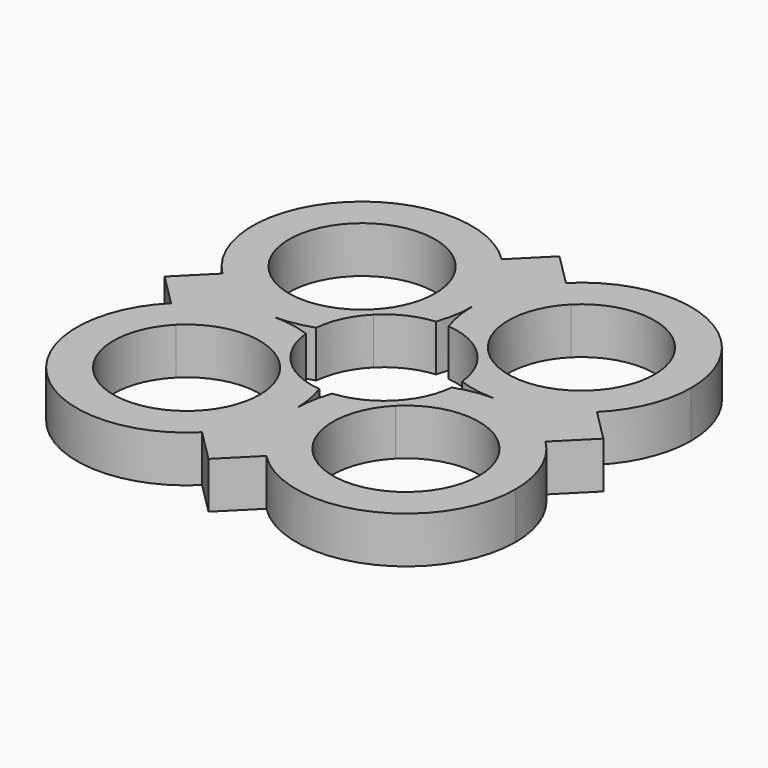
from build123d import *

# Parameters (mm, degrees)
F1_DEPTH = 7


with BuildPart() as f1:
    # F0 (on Top) → F1 (new body)
    with BuildSketch(Plane.XY):
        with BuildLine():
            ThreePointArc((7.7781745931, 7.7781745931), (9.9694294001, 4.6487070714), (10.9581597192, 0.9585069475))
            ThreePointArc((10.9581597192, 0.9585069475), (13.6879398448, 0.2413925048), (16.5, 0))
            ThreePointArc((16.5, 0), (22.814276634, 1.2559877136), (28.1672618896, 4.8327381104))
            Line((28.1672618896, 4.8327381104), (24.2781745931, 8.7218254069))
            ThreePointArc((24.2781745931, 8.7218254069), (16.5, 5.5), (8.7218254069, 8.7218254069))
            Line((8.7218254069, 8.7218254069), (7.7781745931, 7.7781745931))
        make_face()
        with BuildLine():
            ThreePointArc((16.5, 0), (13.6879398448, -0.2413925048), (10.9581597192, -0.9585069475))
            ThreePointArc((10.9581597192, -0.9585069475), (9.9694294001, -4.6487070714), (7.7781745931, -7.7781745931))
            Line((7.7781745931, -7.7781745931), (8.7218254069, -8.7218254069))
            ThreePointArc((8.7218254069, -8.7218254069), (16.5, -5.5), (24.2781745931, -8.7218254069))
            Line((24.2781745931, -8.7218254069), (28.1672618896, -4.8327381104))
            ThreePointArc((28.1672618896, -4.8327381104), (22.814276634, -1.2559877136), (16.5, 0))
        make_face()
        with BuildLine():
            ThreePointArc((28.1672618896, 4.8327381104), (22.814276634, 1.2559877136), (16.5, 0))
            Line((16.5, 0), (33, 0))
            Line((33, 0), (28.1672618896, 4.8327381104))
        make_face()
        with BuildLine():
            Line((33, 0), (16.5, 0))
            ThreePointArc((16.5, 0), (22.814276634, -1.2559877136), (28.1672618896, -4.8327381104))
            Line((28.1672618896, -4.8327381104), (33, 0))
        make_face()
        with BuildLine():
            ThreePointArc((0.9585069475, 10.9581597192), (4.6487070714, 9.9694294001), (7.7781745931, 7.7781745931))
            Line((7.7781745931, 7.7781745931), (8.7218254069, 8.7218254069))
            ThreePointArc((8.7218254069, 8.7218254069), (5.5, 16.5), (8.7218254069, 24.2781745931))
            Line((8.7218254069, 24.2781745931), (4.8327381104, 28.1672618896))
            ThreePointArc((4.8327381104, 28.1672618896), (1.2559877136, 22.814276634), (0, 16.5))
            ThreePointArc((0, 16.5), (0.2413925048, 13.6879398448), (0.9585069475, 10.9581597192))
        make_face()
        with BuildLine():
            Line((8.7218254069, -8.7218254069), (7.7781745931, -7.7781745931))
            ThreePointArc((7.7781745931, -7.7781745931), (4.6487070714, -9.9694294001), (0.9585069475, -10.9581597192))
            ThreePointArc((0.9585069475, -10.9581597192), (0.2413925048, -13.6879398448), (0, -16.5))
            ThreePointArc((0, -16.5), (1.2559877136, -22.814276634), (4.8327381104, -28.1672618896))
            Line((4.8327381104, -28.1672618896), (8.7218254069, -24.2781745931))
            ThreePointArc((8.7218254069, -24.2781745931), (5.5, -16.5), (8.7218254069, -8.7218254069))
        make_face()
        with BuildLine():
            Line((24.2781745931, 8.7218254069), (28.1672618896, 4.8327381104))
            ThreePointArc((28.1672618896, 4.8327381104), (31.7440122864, 10.185723366), (33, 16.5))
            ThreePointArc((33, 16.5), (31.7440122864, 22.814276634), (28.1672618896, 28.1672618896))
            Line((28.1672618896, 28.1672618896), (24.2781745931, 24.2781745931))
            ThreePointArc((24.2781745931, 24.2781745931), (26.6626748576, 20.709517756), (27.5, 16.5))
            ThreePointArc((27.5, 16.5), (26.6626748576, 12.290482244), (24.2781745931, 8.7218254069))
        make_face()
        with BuildLine():
            ThreePointArc((33, -16.5), (31.7440122864, -10.185723366), (28.1672618896, -4.8327381104))
            Line((28.1672618896, -4.8327381104), (24.2781745931, -8.7218254069))
            ThreePointArc((24.2781745931, -8.7218254069), (26.6626748576, -12.290482244), (27.5, -16.5))
            ThreePointArc((27.5, -16.5), (20.709517756, -26.6626748576), (8.7218254069, -24.2781745931))
            Line((8.7218254069, -24.2781745931), (4.8327381104, -28.1672618896))
            ThreePointArc((4.8327381104, -28.1672618896), (22.814276634, -31.7440122864), (33, -16.5))
        make_face()
        with BuildLine():
            Line((-8.7218254069, -8.7218254069), (-7.7781745931, -7.7781745931))
            ThreePointArc((-7.7781745931, -7.7781745931), (-9.9694294001, -4.6487070714), (-10.9581597192, -0.9585069475))
            ThreePointArc((-10.9581597192, -0.9585069475), (-13.6879398448, -0.2413925048), (-16.5, 0))
            ThreePointArc((-16.5, 0), (-22.814276634, -1.2559877136), (-28.1672618896, -4.8327381104))
            Line((-28.1672618896, -4.8327381104), (-24.2781745931, -8.7218254069))
            ThreePointArc((-24.2781745931, -8.7218254069), (-16.5, -5.5), (-8.7218254069, -8.7218254069))
        make_face()
        with BuildLine():
            ThreePointArc((-0.9585069475, -10.9581597192), (-4.6487070714, -9.9694294001), (-7.7781745931, -7.7781745931))
            Line((-7.7781745931, -7.7781745931), (-8.7218254069, -8.7218254069))
            ThreePointArc((-8.7218254069, -8.7218254069), (-6.3373251424, -12.290482244), (-5.5, -16.5))
            ThreePointArc((-5.5, -16.5), (-6.3373251424, -20.709517756), (-8.7218254069, -24.2781745931))
            Line((-8.7218254069, -24.2781745931), (-4.8327381104, -28.1672618896))
            ThreePointArc((-4.8327381104, -28.1672618896), (-1.2559877136, -22.814276634), (0, -16.5))
            ThreePointArc((0, -16.5), (-0.2413925048, -13.6879398448), (-0.9585069475, -10.9581597192))
        make_face()
        with BuildLine():
            ThreePointArc((-16.5, 0), (-13.6879398448, 0.2413925048), (-10.9581597192, 0.9585069475))
            ThreePointArc((-10.9581597192, 0.9585069475), (-9.9694294001, 4.6487070714), (-7.7781745931, 7.7781745931))
            Line((-7.7781745931, 7.7781745931), (-8.7218254069, 8.7218254069))
            ThreePointArc((-8.7218254069, 8.7218254069), (-16.5, 5.5), (-24.2781745931, 8.7218254069))
            Line((-24.2781745931, 8.7218254069), (-28.1672618896, 4.8327381104))
            ThreePointArc((-28.1672618896, 4.8327381104), (-22.814276634, 1.2559877136), (-16.5, 0))
        make_face()
        with BuildLine():
            ThreePointArc((-28.1672618896, -4.8327381104), (-22.814276634, -1.2559877136), (-16.5, 0))
            Line((-16.5, 0), (-33, 0))
            Line((-33, 0), (-28.1672618896, -4.8327381104))
        make_face()
        with BuildLine():
            Line((-33, 0), (-16.5, 0))
            ThreePointArc((-16.5, 0), (-22.814276634, 1.2559877136), (-28.1672618896, 4.8327381104))
            Line((-28.1672618896, 4.8327381104), (-33, 0))
        make_face()
        with BuildLine():
            ThreePointArc((-7.7781745931, 7.7781745931), (-4.6487070714, 9.9694294001), (-0.9585069475, 10.9581597192))
            ThreePointArc((-0.9585069475, 10.9581597192), (-0.2413925048, 13.6879398448), (0, 16.5))
            ThreePointArc((0, 16.5), (-1.2559877136, 22.814276634), (-4.8327381104, 28.1672618896))
            Line((-4.8327381104, 28.1672618896), (-8.7218254069, 24.2781745931))
            ThreePointArc((-8.7218254069, 24.2781745931), (-6.3373251424, 20.709517756), (-5.5, 16.5))
            ThreePointArc((-5.5, 16.5), (-6.3373251424, 12.290482244), (-8.7218254069, 8.7218254069))
            Line((-8.7218254069, 8.7218254069), (-7.7781745931, 7.7781745931))
        make_face()
        with BuildLine():
            ThreePointArc((-4.8327381104, 28.1672618896), (-1.2559877136, 22.814276634), (0, 16.5))
            ThreePointArc((0, 16.5), (1.2559877136, 22.814276634), (4.8327381104, 28.1672618896))
            Line((4.8327381104, 28.1672618896), (0, 33))
            Line((0, 33), (-4.8327381104, 28.1672618896))
        make_face()
        with BuildLine():
            Line((4.8327381104, 28.1672618896), (8.7218254069, 24.2781745931))
            ThreePointArc((8.7218254069, 24.2781745931), (16.5, 27.5), (24.2781745931, 24.2781745931))
            Line((24.2781745931, 24.2781745931), (28.1672618896, 28.1672618896))
            ThreePointArc((28.1672618896, 28.1672618896), (16.5, 33), (4.8327381104, 28.1672618896))
        make_face()
        with BuildLine():
            ThreePointArc((4.8327381104, -28.1672618896), (1.2559877136, -22.814276634), (0, -16.5))
            ThreePointArc((0, -16.5), (-1.2559877136, -22.814276634), (-4.8327381104, -28.1672618896))
            Line((-4.8327381104, -28.1672618896), (0, -33))
            Line((0, -33), (4.8327381104, -28.1672618896))
        make_face()
        with BuildLine():
            ThreePointArc((-4.8327381104, 28.1672618896), (-28.1672618896, 28.1672618896), (-28.1672618896, 4.8327381104))
            Line((-28.1672618896, 4.8327381104), (-24.2781745931, 8.7218254069))
            ThreePointArc((-24.2781745931, 8.7218254069), (-24.2781745931, 24.2781745931), (-8.7218254069, 24.2781745931))
            Line((-8.7218254069, 24.2781745931), (-4.8327381104, 28.1672618896))
        make_face()
        with BuildLine():
            Line((-24.2781745931, -8.7218254069), (-28.1672618896, -4.8327381104))
            ThreePointArc((-28.1672618896, -4.8327381104), (-28.1672618896, -28.1672618896), (-4.8327381104, -28.1672618896))
            Line((-4.8327381104, -28.1672618896), (-8.7218254069, -24.2781745931))
            ThreePointArc((-8.7218254069, -24.2781745931), (-24.2781745931, -24.2781745931), (-24.2781745931, -8.7218254069))
        make_face()
    extrude(amount=F1_DEPTH)


solid = f1.part
